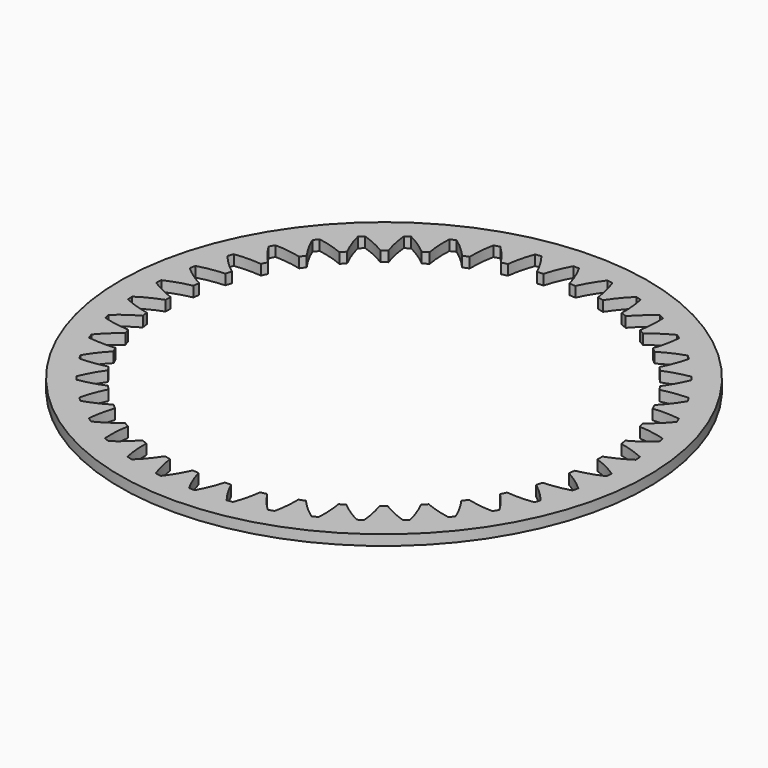
from build123d import *

# Parameters (mm, degrees)
F1_DEPTH = 4.30784
F2_SCALE = 2.7709


with BuildPart() as f1:
    # F0 (on Top) → F1 (new body)
    with BuildSketch(Plane.XY):
        with BuildLine():
            ThreePointArc((55.6844802677, 96.4486489149), (-94.578259947, 56.1856522163), (-54.3152632484, -94.0770879985))
            ThreePointArc((-54.3152632484, -94.0770879985), (95.9474769664, -53.8140912998), (55.6844802677, 96.4486489149))
        make_face()
        with BuildLine():
            ThreePointArc((-30.9896717963, 85.4279310385), (-30.8128639475, 90.9935406993), (-29.9825159373, 96.4997003494))
            ThreePointArc((-29.9825159373, 96.4997003494), (-28.8281770895, 96.8634232613), (-27.6695261044, 97.213166634))
            ThreePointArc((-27.6695261044, 97.213166634), (-23.8817192451, 93.1315259479), (-20.6004020939, 88.632611718))
            ThreePointArc((-20.6004020939, 88.632611718), (-19.3423938548, 88.9292653978), (-18.0802551377, 89.2078223831))
            ThreePointArc((-18.0802551377, 89.2078223831), (-17.075911006, 94.684916922), (-15.4341867849, 100.0058203513))
            ThreePointArc((-15.4341867849, 100.0058203513), (-14.2385308626, 100.1934355007), (-13.0406945081, 100.3665845602))
            ThreePointArc((-13.0406945081, 100.3665845602), (-9.9035312614, 95.7659890653), (-7.3293920574, 90.828268994))
            ThreePointArc((-7.3293920574, 90.828268994), (-6.041220851, 90.9341128935), (-4.7516624732, 91.0214466096))
            ThreePointArc((-4.7516624732, 91.0214466096), (-2.942217452, 96.2876768119), (-0.5257904252, 101.3044638567))
            ThreePointArc((-0.5257904252, 101.3044638567), (0.6844735574, 101.3117802309), (1.8947375597, 101.3044671138))
            ThreePointArc((1.8947375597, 101.3044671138), (4.3111780855, 96.2876865816), (6.1206372791, 91.0214612588))
            ThreePointArc((6.1206372791, 91.0214612588), (7.4101959138, 90.9341310126), (8.6983674267, 90.8282905785))
            ThreePointArc((8.6983674267, 90.8282905785), (11.2724933258, 95.7660175503), (14.4096441687, 100.3666214651))
            ThreePointArc((14.4096441687, 100.3666214651), (15.6074809496, 100.1934756347), (16.8031373375, 100.0058637096))
            ThreePointArc((16.8031373375, 100.0058637096), (18.444875871, 94.6849647155), (19.4492347397, 89.2078728976))
            ThreePointArc((19.4492347397, 89.2078728976), (20.711374164, 88.9293193186), (21.9693831592, 88.6326690351))
            ThreePointArc((21.9693831592, 88.6326690351), (25.2506882058, 93.1315921113), (29.0384840865, 97.2132430053))
            ThreePointArc((29.0384840865, 97.2132430053), (30.1971360237, 96.8635027484), (31.3514758611, 96.4997829405))
            ThreePointArc((31.3514758611, 96.4997829405), (32.1818386882, 90.9936255642), (32.3586615231, 85.4280164186))
            ThreePointArc((32.3586615231, 85.4280164186), (33.5651876605, 84.9644619241), (34.7649323282, 84.4836284582))
            ThreePointArc((34.7649323282, 84.4836284582), (38.6801175932, 88.4432491358), (43.0339454153, 91.9147696764))
            ThreePointArc((43.0339454153, 91.9147696764), (44.1275300835, 91.396247621), (45.2147672706, 90.86454484))
            ThreePointArc((45.2147672706, 90.86454484), (45.2152054657, 85.2961274811), (44.5605423313, 79.7663274618))
            ThreePointArc((44.5605423313, 79.7663274618), (45.6845033419, 79.1281271059), (46.7991833294, 78.4738514965))
            ThreePointArc((46.7991833294, 78.4738514965), (51.2607900554, 81.8057183993), (56.0833925136, 84.5895605581))
            ThreePointArc((56.0833925136, 84.5895605581), (57.0874810238, 83.9138396401), (58.0833284641, 83.2260312575))
            ThreePointArc((58.0833284641, 83.2260312575), (57.2538322228, 77.7197432437), (55.7823072161, 72.349279031))
            ThreePointArc((55.7823072161, 72.349279031), (56.7985957064, 71.5506891318), (57.8033109423, 70.7375867906))
            ThreePointArc((57.8033109423, 70.7375867906), (62.7116741439, 73.3672714752), (67.8953221965, 75.4012487922))
            ThreePointArc((67.8953221965, 75.4012487922), (68.787484917, 74.5834234682), (69.6696970698, 73.7548739539))
            ThreePointArc((69.6696970698, 73.7548739539), (68.0287959696, 68.4337166245), (65.7732805211, 63.3425554792))
            ThreePointArc((65.7732805211, 63.3425554792), (66.6591942253, 62.4014152662), (67.5315009725, 61.447649608))
            ThreePointArc((67.5315009725, 61.447649608), (72.7769760637, 63.3164093517), (78.2058757321, 64.5550861876))
            ThreePointArc((78.2058757321, 64.5550861876), (78.9661831321, 63.6134254158), (79.7150527483, 62.6626432905))
            ThreePointArc((79.7150527483, 62.6626432905), (77.2994018083, 57.6454824888), (74.3102804025, 52.9473525208))
            ThreePointArc((74.3102804025, 52.9473525208), (75.0460295413, 51.8846854405), (75.7664419755, 50.8115619417))
            ThreePointArc((75.7664419755, 50.8115619417), (81.2318536343, 51.87765169), (86.784732185, 52.2933580204))
            ThreePointArc((86.784732185, 52.2933580204), (87.3962003312, 51.2488968714), (87.9949989767, 50.19712096))
            ThreePointArc((87.9949989767, 50.19712096), (84.8585598496, 45.596031803), (81.2026045291, 41.3958815053))
            ThreePointArc((81.2026045291, 41.3958815053), (81.7717536328, 40.2354258489), (82.3241788828, 39.0669163813))
            ThreePointArc((82.3241788828, 39.0669163813), (87.8874388136, 39.3065214497), (93.4402540856, 38.8899710882))
            ThreePointArc((93.4402540856, 38.8899710882), (93.8892238042, 37.7660410545), (94.3245753199, 36.6367662489))
            ThreePointArc((94.3245753199, 36.6367662489), (90.5374108788, 32.5545294578), (86.2962896486, 28.9461832392))
            ThreePointArc((86.2962896486, 28.9461832392), (86.6861248973, 27.7138616088), (87.0582227248, 26.4760686824))
            ThreePointArc((87.0582227248, 26.4760686824), (92.5950569293, 25.8838366918), (98.0237682404, 24.6443346793))
            ThreePointArc((98.0237682404, 24.6443346793), (98.3002102586, 23.4660425518), (98.5623895809, 22.2844950369))
            ThreePointArc((98.5623895809, 22.2844950369), (94.2090988272, 18.8123010435), (89.4775513343, 15.8763634015))
            ThreePointArc((89.4775513343, 15.8763634015), (89.6793644349, 14.5997038679), (89.8628227726, 13.3202777737))
            ThreePointArc((89.8628227726, 13.3202777737), (95.2495475334, 11.9094382032), (100.4328864518, 9.874672959))
            ThreePointArc((100.4328864518, 9.874672959), (100.5306255091, 8.6683398669), (100.6137759835, 7.460913492))
            ThreePointArc((100.6137759835, 7.460913492), (95.7916042219, 4.676325351), (90.6753253974, 2.4783802647))
            ThreePointArc((90.6753253974, 2.4783802647), (90.684608182, 1.1859013063), (90.6753288774, -0.1065776771))
            ThreePointArc((90.6753288774, -0.1065776771), (95.7916136502, -2.3045089942), (100.6137929367, -5.0890841645))
            ThreePointArc((100.6137929367, -5.0890841645), (100.5306457087, -6.2965108248), (100.4329098933, -7.5028442413))
            ThreePointArc((100.4329098933, -7.5028442413), (95.2495764631, -9.5376234325), (89.862855512, -10.9484775003))
            ThreePointArc((89.862855512, -10.9484775003), (89.6794006257, -12.2279040354), (89.4775909706, -13.5045640594))
            ThreePointArc((89.4775909706, -13.5045640594), (94.2091463697, -16.4404889614), (98.5624464735, -19.9126712335))
            ThreePointArc((98.5624464735, -19.9126712335), (98.3002703244, -21.0942194902), (98.0238314699, -22.2725123975))
            ThreePointArc((98.0238314699, -22.2725123975), (92.5951235096, -23.5120290233), (87.0582909136, -24.1042759213))
            ThreePointArc((87.0582909136, -24.1042759213), (86.6861964149, -25.3420698649), (86.2963644798, -26.57439256))
            ThreePointArc((86.2963644798, -26.57439256), (90.5374953906, -30.1827273304), (94.324670796, -34.2649538881))
            ThreePointArc((94.324670796, -34.2649538881), (93.889322299, -35.3942299236), (93.4403555833, -36.5181612234))
            ThreePointArc((93.4403555833, -36.5181612234), (87.887541452, -36.9347265298), (82.3242808955, -36.6951364391))
            ThreePointArc((82.3242808955, -36.6951364391), (81.771858786, -37.8636474053), (81.2027128009, -39.0241046052))
            ThreePointArc((81.2027128009, -39.0241046052), (84.8586794045, -43.2242450291), (87.9951309019, -47.8253257056))
            ThreePointArc((87.9951309019, -47.8253257056), (87.396335029, -48.8771033336), (86.7848696331, -49.9215662319))
            ThreePointArc((86.7848696331, -49.9215662319), (81.2319906202, -49.5058744013), (75.7665767824, -48.4397990699))
            ThreePointArc((75.7665767824, -48.4397990699), (75.0461672529, -49.512924485), (74.3104209913, -50.5755935234))
            ThreePointArc((74.3104209913, -50.5755935234), (77.2995550352, -55.2737154202), (79.7152194778, -60.2908696923))
            ThreePointArc((79.7152194778, -60.2908696923), (78.9663523658, -61.2416539035), (78.2060474438, -62.1833167908))
            ThreePointArc((78.2060474438, -62.1833167908), (72.7771444879, -60.9446545718), (67.5316644105, -59.0759089619))
            ThreePointArc((67.5316644105, -59.0759089619), (66.6593602076, -60.0296769938), (65.773449013, -60.9708196165))
            ThreePointArc((65.773449013, -60.9708196165), (68.0289781493, -66.0619746543), (69.6698935653, -71.3831275276))
            ThreePointArc((69.6698935653, -71.3831275276), (68.7876836282, -72.2116794317), (67.8955230943, -73.0295071718))
            ThreePointArc((67.8955230943, -73.0295071718), (63.2970253855, -71.2611369004), (58.9076646602, -69.0235428761))
            ThreePointArc((58.9076646602, -69.0235428761), (58.3533457512, -68.6984618809), (57.8034991727, -68.3658722744))
            ThreePointArc((57.8034991727, -68.3658722744), (56.7987861335, -69.1789773142), (55.782499801, -69.9775699433))
            ThreePointArc((55.782499801, -69.9775699433), (57.2540392608, -75.3480301778), (58.083550325, -80.8543159411))
            ThreePointArc((58.083550325, -80.8543159411), (57.08770473, -81.542127009), (56.0836180324, -82.2178506345))
            ThreePointArc((56.0836180324, -82.2178506345), (54.8460993415, -81.5746541739), (53.628103047, -80.8952137985))
            ThreePointArc((53.628103047, -80.8952137985), (50.1077521403, -78.6497032537), (46.7993923146, -76.1021665264))
            ThreePointArc((46.7993923146, -76.1021665264), (45.6847140947, -76.7564451326), (44.5607548085, -77.3946485105))
            ThreePointArc((44.5607548085, -77.3946485105), (45.2154328254, -82.9244467121), (45.2150096298, -88.4928640166))
            ThreePointArc((45.2150096298, -88.4928640166), (44.1277738755, -89.0245697249), (43.0341906047, -89.5430947247))
            ThreePointArc((43.0341906047, -89.5430947247), (38.6803533868, -86.0715858783), (34.7651574202, -82.1119757037))
            ThreePointArc((34.7651574202, -82.1119757037), (33.5654140687, -82.5928123906), (32.3588892013, -83.0563701251))
            ThreePointArc((32.3588892013, -83.0563701251), (32.1820813499, -88.6219797585), (31.3517333437, -94.1281393817))
            ThreePointArc((31.3517333437, -94.1281393817), (30.197394489, -94.491862296), (29.038743497, -94.841605671))
            ThreePointArc((29.038743497, -94.841605671), (25.2509366242, -90.7599649724), (21.9696194628, -86.2610507274))
            ThreePointArc((21.9696194628, -86.2610507274), (20.7116112532, -86.5577044007), (19.4494725657, -86.8362613803))
            ThreePointArc((19.4494725657, -86.8362613803), (18.4451284384, -92.3133559167), (16.8034042224, -97.6342593442))
            ThreePointArc((16.8034042224, -97.6342593442), (15.6077482908, -97.8218744951), (14.4099119271, -97.9950235559))
            ThreePointArc((14.4099119271, -97.9950235559), (11.2727487202, -93.3944281047), (8.6986095446, -88.4567080847))
            ThreePointArc((8.6986095446, -88.4567080847), (7.4104383147, -88.5625519868), (6.1208799131, -88.6498857047))
            ThreePointArc((6.1208799131, -88.6498857047), (4.3114348906, -93.9161159157), (1.8950078605, -98.9329029685))
            ThreePointArc((1.8950078605, -98.9329029685), (0.684743881, -98.9402193427), (-0.5255201183, -98.9329062257))
            ThreePointArc((-0.5255201183, -98.9329062257), (-2.9419606458, -93.916125693), (-4.751419841, -88.6499003696))
            ThreePointArc((-4.751419841, -88.6499003696), (-6.0409784909, -88.5625701227), (-7.3291500189, -88.4567296874))
            ThreePointArc((-7.3291500189, -88.4567296874), (-9.9032759182, -93.3944566598), (-13.0404267614, -97.9950605752))
            ThreePointArc((-13.0404267614, -97.9950605752), (-14.2382635282, -97.821914747), (-15.4339199021, -97.6343028244))
            ThreePointArc((-15.4339199021, -97.6343028244), (-17.0756584469, -92.3134038124), (-18.0800173223, -86.8363119751))
            ThreePointArc((-18.0800173223, -86.8363119751), (-19.3421567682, -86.5577583918), (-20.6001657849, -86.2611081036))
            ThreePointArc((-20.6001657849, -86.2611081036), (-23.8814708365, -90.7600311901), (-27.6692667244, -94.8416820928))
            ThreePointArc((-27.6692667244, -94.8416820928), (-28.8279186549, -94.4919418379), (-29.9822584857, -94.1282220323))
            ThreePointArc((-29.9822584857, -94.1282220323), (-30.8126213173, -88.6220646425), (-30.9894441535, -83.056455483))
            ThreePointArc((-30.9894441535, -83.056455483), (-32.1959702857, -82.5929009905), (-33.3957149483, -82.1120675269))
            ThreePointArc((-33.3957149483, -82.1120675269), (-37.310900229, -86.0716882241), (-41.6647280709, -89.54320878))
            ThreePointArc((-41.6647280709, -89.54320878), (-42.7583127402, -89.0246867236), (-43.8455499284, -88.4929839416))
            ThreePointArc((-43.8455499284, -88.4929839416), (-43.8459881184, -82.9245666339), (-43.1913249909, -77.3947666652))
            ThreePointArc((-43.1913249909, -77.3947666652), (-43.7544512247, -77.0776841741), (-44.3152860903, -76.7565662597))
            ThreePointArc((-44.3152860903, -76.7565662597), (-44.8738006167, -76.4314295107), (-45.4299660595, -76.1022906612))
            ThreePointArc((-45.4299660595, -76.1022906612), (-49.8915727984, -79.4341575815), (-54.7141752727, -82.2179997541))
            ThreePointArc((-54.7141752727, -82.2179997541), (-55.718263812, -81.5422788169), (-56.7141112809, -80.8544704145))
            ThreePointArc((-56.7141112809, -80.8544704145), (-55.8846150389, -75.3481824257), (-54.4130900373, -69.977718237))
            ThreePointArc((-54.4130900373, -69.977718237), (-55.4293785106, -69.1791283514), (-56.4340937299, -68.3660260242))
            ThreePointArc((-56.4340937299, -68.3660260242), (-61.3424569845, -70.9957107505), (-66.5261050975, -73.0296880955))
            ThreePointArc((-66.5261050975, -73.0296880955), (-67.4182678327, -72.2118627578), (-68.30048, -71.3833132295))
            ThreePointArc((-68.30048, -71.3833132295), (-66.659578906, -66.0621559442), (-64.4040634739, -60.9709948399))
            ThreePointArc((-64.4040634739, -60.9709948399), (-65.2899771841, -60.0298546208), (-66.1622839372, -59.0760889564))
            ThreePointArc((-66.1622839372, -59.0760889564), (-71.4077590366, -60.9448487048), (-76.8366587138, -62.1835255432))
            ThreePointArc((-76.8366587138, -62.1835255432), (-77.5969661283, -61.2418647532), (-78.3458357586, -60.2910826095))
            ThreePointArc((-78.3458357586, -60.2910826095), (-75.9301848313, -55.2739218534), (-72.9410634483, -50.5757919263))
            ThreePointArc((-72.9410634483, -50.5757919263), (-73.6768125856, -49.513124848), (-74.3972250185, -48.4400013514))
            ThreePointArc((-74.3972250185, -48.4400013514), (-79.8626366847, -49.5060911025), (-85.415515243, -49.9217974339))
            ThreePointArc((-85.415515243, -49.9217974339), (-86.0269833893, -48.8773362849), (-86.6257820348, -47.8255603735))
            ThreePointArc((-86.6257820348, -47.8255603735), (-83.4893429088, -43.2244712181), (-79.8333875899, -39.0243209216))
            ThreePointArc((-79.8333875899, -39.0243209216), (-80.4025366919, -37.863865269), (-80.9549619403, -36.6953558052))
            ThreePointArc((-80.9549619403, -36.6953558052), (-86.5182219011, -36.9349608803), (-92.0710372033, -36.5184105185))
            ThreePointArc((-92.0710372033, -36.5184105185), (-92.5200069254, -35.3944804761), (-92.9553584443, -34.2652056617))
            ThreePointArc((-92.9553584443, -34.2652056617), (-89.1681940125, -30.182968885), (-84.9270727946, -26.5746226781))
            ThreePointArc((-84.9270727946, -26.5746226781), (-85.3169080384, -25.3423010636), (-85.6890058614, -24.1045081532))
            ThreePointArc((-85.6890058614, -24.1045081532), (-91.2258401174, -23.5122761662), (-96.6545514788, -22.2727741453))
            ThreePointArc((-96.6545514788, -22.2727741453), (-96.9309934994, -21.0944820072), (-97.1931728239, -19.9129344815))
            ThreePointArc((-97.1931728239, -19.9129344815), (-92.8398820849, -16.4407405048), (-88.10833461, -13.5048028756))
            ThreePointArc((-88.10833461, -13.5048028756), (-88.310147711, -12.2281433396), (-88.493606049, -10.948717243))
            ThreePointArc((-88.493606049, -10.948717243), (-93.8803308023, -9.5378776731), (-99.0636697137, -7.5031124312))
            ThreePointArc((-99.0636697137, -7.5031124312), (-99.1614087716, -6.2967793318), (-99.2445592464, -5.0893529496))
            ThreePointArc((-99.2445592464, -5.0893529496), (-94.4223874912, -2.3047648157), (-89.3061086743, -0.1068197347))
            ThreePointArc((-89.3061086743, -0.1068197347), (-89.3153914584, 1.1856592183), (-89.3061121535, 2.4781381962))
            ThreePointArc((-89.3061121535, 2.4781381962), (-93.1665278785, 4.0694830958), (-96.8713776978, 5.9954311678))
            ThreePointArc((-96.8713776978, 5.9954311678), (-98.0687903629, 6.7105234693), (-99.2445761707, 7.4606446758))
            ThreePointArc((-99.2445761707, 7.4606446758), (-99.1614289436, 8.6680713134), (-99.0636931297, 9.8744047073))
            ThreePointArc((-99.0636931297, 9.8744047073), (-93.8803597122, 11.9091838907), (-88.4936387751, 13.3200379539))
            ThreePointArc((-88.4936387751, 13.3200379539), (-88.3101838889, 14.5994644882), (-88.1083742339, 15.8761245115))
            ThreePointArc((-88.1083742339, 15.8761245115), (-88.6713294391, 16.1860093165), (-89.2300181814, 16.5035215912))
            ThreePointArc((-89.2300181814, 16.5035215912), (-93.3625189895, 19.1860113247), (-97.1932297244, 22.2842316789))
            ThreePointArc((-97.1932297244, 22.2842316789), (-96.9310535714, 23.4657799528), (-96.6546147126, 24.6440728773))
            ThreePointArc((-96.6546147126, 24.6440728773), (-91.2259067717, 25.8835894913), (-85.6890741967, 26.4758363825))
            ThreePointArc((-85.6890741967, 26.4758363825), (-85.31697971, 27.7136302833), (-84.927147788, 28.945952936))
            ThreePointArc((-84.927147788, 28.945952936), (-89.1682787034, 32.5542877091), (-92.9554541125, 36.6365142704))
            ThreePointArc((-92.9554541125, 36.6365142704), (-92.5201056156, 37.765790306), (-92.0711388999, 38.8897216057))
            ThreePointArc((-92.0711388999, 38.8897216057), (-86.5183247686, 39.3062869121), (-80.9550642121, 39.0666968215))
            ThreePointArc((-80.9550642121, 39.0666968215), (-80.4026421035, 40.2352077858), (-79.8334961194, 41.3956649838))
            ThreePointArc((-79.8334961194, 41.3956649838), (-83.489462743, 45.5958054312), (-86.6259142545, 50.1968861354))
            ThreePointArc((-86.6259142545, 50.1968861354), (-86.0271184017, 51.248663726), (-85.415653027, 52.2931265874))
            ThreePointArc((-85.415653027, 52.2931265874), (-79.8627734085, 51.8774352008), (-74.39735893, 50.8113601727))
            ThreePointArc((-74.39735893, 50.8113601727), (-73.6769493913, 51.8844856014), (-72.9412031201, 52.9471546531))
            ThreePointArc((-72.9412031201, 52.9471546531), (-75.930337129, 57.6452765117), (-78.3460015468, 62.6624307392))
            ThreePointArc((-78.3460015468, 62.6624307392), (-77.5971344423, 63.6132149411), (-76.8368295279, 64.5548778192))
            ThreePointArc((-76.8368295279, 64.5548778192), (-71.4079265326, 63.3162155947), (-66.1624464184, 61.4474699702))
            ThreePointArc((-66.1624464184, 61.4474699702), (-65.2901422514, 62.4012379614), (-64.4042310938, 63.3423805445))
            ThreePointArc((-64.4042310938, 63.3423805445), (-66.659760241, 68.4335355987), (-68.3006756639, 73.7546884901))
            ThreePointArc((-68.3006756639, 73.7546884901), (-67.4184657133, 74.5832404067), (-66.5263051657, 75.401068159))
            ThreePointArc((-66.5263051657, 75.401068159), (-61.3426515922, 73.3671047686), (-56.4342812727, 70.7374332589))
            ThreePointArc((-56.4342812727, 70.7374332589), (-55.4295683067, 71.5505382376), (-54.4132820491, 72.3491308077))
            ThreePointArc((-54.4132820491, 72.3491308077), (-55.8848215417, 77.7195911254), (-56.7143326182, 83.2258769767))
            ThreePointArc((-56.7143326182, 83.2258769767), (-55.7184870659, 83.913688014), (-54.7144004117, 84.5894116098))
            ThreePointArc((-54.7144004117, 84.5894116098), (-49.8917904046, 81.8055824063), (-45.4301746623, 78.4737274751))
            ThreePointArc((-45.4301746623, 78.4737274751), (-44.315496492, 79.1280060505), (-43.1915372564, 79.7662093992))
            ThreePointArc((-43.1915372564, 79.7662093992), (-43.8462152699, 85.2960076056), (-43.84579207, 90.8644249145))
            ThreePointArc((-43.84579207, 90.8644249145), (-42.7585563268, 91.3961306164), (-41.6649730673, 91.9146556101))
            ThreePointArc((-41.6649730673, 91.9146556101), (-37.3111358912, 88.4431467845), (-33.39593996, 84.4835366393))
            ThreePointArc((-33.39593996, 84.4835366393), (-32.196196636, 84.9643733147), (-30.9896717963, 85.4279310385))
        make_face(mode=Mode.SUBTRACT)
    extrude(amount=F1_DEPTH)


with BuildPart() as f1_1:
    # F2: moved
    add(f1.part.scale(F2_SCALE))


solid = f1_1.part
